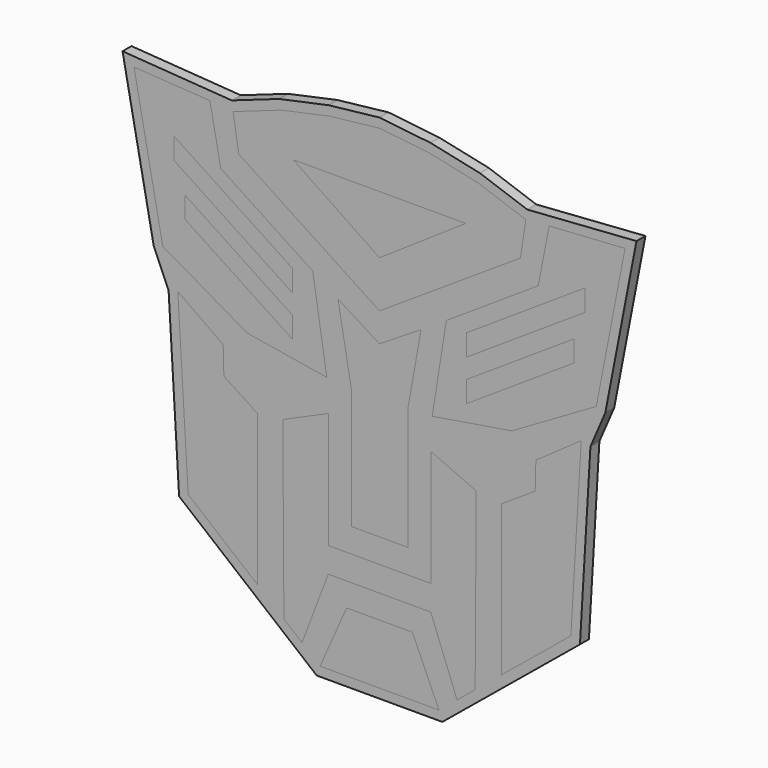
from build123d import *

# Parameters (mm, degrees)
F1_DEPTH = 3
F2_DEPTH = 3


with BuildPart() as f1:
    # F0 (on Front) → F1 (new body)
    with BuildSketch(Plane.XZ):
        Polygon((-53.7268821774, -45.1509824151), (-16.8422368791, -75.4352191945), (0, -75.4352191945), (16.8422368791, -75.4352191945), (53.7268821774, -45.1509824151), (56.539489991, 2.4758509296), (60.5167968374, 11.6959701843), (68.8824881855, 54.9527208183), (39.5995415777, 52.8759177307), (26.9121019356, 57.3433240473), (13.668756584, 60.1811832195), (0, 61.7105533974), (-13.668756584, 60.1811832195), (-26.9121019356, 57.3433240473), (-39.5995415777, 52.8759177307), (-68.8824881855, 54.9527208183), (-60.5167968374, 11.6959701843), (-56.539489991, 2.4758509296), align=None)
        Polygon((0, -72.9352191945), (-15.9474076001, -72.9352191945), (-8.8130280426, -56.8777846413), (0, -56.8777846413), (8.8130280426, -56.8777846413), (15.9474076001, -72.9352191945), align=None, mode=Mode.SUBTRACT)
        Polygon((-51.2956691779, -43.9124343824), (-54.069764731, 3.0622579127), (-41.9068980902, -5.5238401345), (-41.7224738687, -12.9008899038), (-32.7356569469, -18.7698302652), (-32.7356569469, -59.1511821184), align=None, mode=Mode.SUBTRACT)
        Polygon((-20.7786551274, -68.9685104767), (-25.6327636245, -64.9830316984), (-25.9178352004, -17.9705391344), (-13.7341774234, -12.595396716), (-13.7341774234, -43.7634282222), (0, -43.7634282222), (13.7341774234, -43.7634282222), (13.7341774234, -12.595396716), (25.9178352004, -17.9705391344), (25.6327636245, -64.9830316984), (20.7786551274, -68.9685104767), (13.7341774234, -50.5167127064), (0, -50.5167127064), (-13.7341774234, -50.5167127064), align=None, mode=Mode.SUBTRACT)
        Polygon((-11.1315774996, 15.2598236049), (0, 8.3369127888), (11.1315774996, 15.2598236049), (7.5704223445, -4.7330088536), (7.5704223445, -37.2498376782), (0, -37.2498376782), (-7.5704223445, -37.2498376782), (-7.5704223445, -4.7330088536), align=None, mode=Mode.SUBTRACT)
        Polygon((41.7224738687, -12.9008899038), (41.9068980902, -5.5238401345), (54.069764731, 3.0622579127), (51.2956691779, -43.9124343824), (32.7356569469, -59.1511821184), (32.7356569469, -18.7698302652), align=None, mode=Mode.SUBTRACT)
        Polygon((-58.1137972208, 12.4370593213), (-65.8093079622, 52.2284854321), (-45.4636682793, 50.9152881913), (-42.5526780081, 35.8633367126), (-17.9050337457, 19.645767187), (-14.1293259443, -4.1849346973), (-35.4855594774, -0.687475038), align=None, mode=Mode.SUBTRACT)
        Polygon((-13.2668552733, 57.7105511727), (0, 59.1949534067), (13.2668552733, 57.7105511727), (26.2322769099, 54.9322470708), (39.2356092694, 50.3536109741), (37.7532232006, 40.8154597581), (0, 16.0755234033), (-37.7532232006, 40.8154597581), (-39.2356092694, 50.3536109741), (-26.2322769099, 54.9322470708), align=None, mode=Mode.SUBTRACT)
        Polygon((14.1293259443, -4.1849346973), (17.9050337457, 19.645767187), (42.5526780081, 35.8633367126), (45.4636682793, 50.9152881913), (65.8093079622, 52.2284854321), (58.1137972208, 12.4370593213), (35.4855594774, -0.687475038), align=None, mode=Mode.SUBTRACT)
        Polygon((13.2668552733, 57.7105511727), (0, 59.1949534067), (-13.2668552733, 57.7105511727), (-26.2322769099, 54.9322470708), (-39.2356092694, 50.3536109741), (-37.7532232006, 40.8154597581), (0, 16.0755234033), (37.7532232006, 40.8154597581), (39.2356092694, 50.3536109741), (26.2322769099, 54.9322470708), align=None)
        Polygon((-23.1279600412, 44.2372744608), (0, 44.2372744608), (23.1279600412, 44.2372744608), (0, 28.6302770901), align=None, mode=Mode.SUBTRACT)
        Polygon((-45.4636682793, 50.9152881913), (-65.8093079622, 52.2284854321), (-58.1137972208, 12.4370593213), (-35.4855594774, -0.687475038), (-14.1293259443, -4.1849346973), (-17.9050337457, 19.645767187), (-42.5526780081, 35.8633367126), align=None)
        Polygon((-52.1286109686, 20.7382355763), (-52.1286109686, 26.4273900021), (-23.2774294992, 7.4439919785), (-23.2774294992, 1.7548375527), align=None, mode=Mode.SUBTRACT)
        Polygon((-55.0485791862, 33.6241911626), (-55.0485791862, 39.3785553987), (-23.2774294992, 18.4738870469), (-23.2774294992, 12.7195228108), align=None, mode=Mode.SUBTRACT)
        Polygon((42.5526780081, 35.8633367126), (17.9050337457, 19.645767187), (14.1293259443, -4.1849346973), (35.4855594774, -0.687475038), (58.1137972208, 12.4370593213), (65.8093079622, 52.2284854321), (45.4636682793, 50.9152881913), align=None)
        Polygon((23.2774294992, 7.4439919785), (52.1286109686, 26.4273900021), (52.1286109686, 20.7382355763), (23.2774294992, 1.7548375527), align=None, mode=Mode.SUBTRACT)
        Polygon((55.0485791862, 39.3785553987), (55.0485791862, 33.6241911626), (23.2774294992, 12.7195228108), (23.2774294992, 18.4738870469), align=None, mode=Mode.SUBTRACT)
        Polygon((-25.9178352004, -17.9705391344), (-25.6327636245, -64.9830316984), (-20.7786551274, -68.9685104767), (-13.7341774234, -50.5167127064), (0, -50.5167127064), (13.7341774234, -50.5167127064), (20.7786551274, -68.9685104767), (25.6327636245, -64.9830316984), (25.9178352004, -17.9705391344), (13.7341774234, -12.595396716), (13.7341774234, -43.7634282222), (0, -43.7634282222), (-13.7341774234, -43.7634282222), (-13.7341774234, -12.595396716), align=None)
        Polygon((-41.9068980902, -5.5238401345), (-54.069764731, 3.0622579127), (-51.2956691779, -43.9124343824), (-32.7356569469, -59.1511821184), (-32.7356569469, -18.7698302652), (-41.7224738687, -12.9008899038), align=None)
        Polygon((54.069764731, 3.0622579127), (41.9068980902, -5.5238401345), (41.7224738687, -12.9008899038), (32.7356569469, -18.7698302652), (32.7356569469, -59.1511821184), (51.2956691779, -43.9124343824), align=None)
        Polygon((11.1315774996, 15.2598236049), (0, 8.3369127888), (-11.1315774996, 15.2598236049), (-7.5704223445, -4.7330088536), (-7.5704223445, -37.2498376782), (0, -37.2498376782), (7.5704223445, -37.2498376782), (7.5704223445, -4.7330088536), align=None)
        Polygon((-8.8130280426, -56.8777846413), (-15.9474076001, -72.9352191945), (0, -72.9352191945), (15.9474076001, -72.9352191945), (8.8130280426, -56.8777846413), (0, -56.8777846413), align=None)
        Polygon((23.1279600412, 44.2372744608), (0, 44.2372744608), (-23.1279600412, 44.2372744608), (0, 28.6302770901), align=None)
        Polygon((-23.2774294992, 18.4738870469), (-55.0485791862, 39.3785553987), (-55.0485791862, 33.6241911626), (-23.2774294992, 12.7195228108), align=None)
        Polygon((23.2774294992, 12.7195228108), (55.0485791862, 33.6241911626), (55.0485791862, 39.3785553987), (23.2774294992, 18.4738870469), align=None)
        Polygon((-23.2774294992, 7.4439919785), (-52.1286109686, 26.4273900021), (-52.1286109686, 20.7382355763), (-23.2774294992, 1.7548375527), align=None)
        Polygon((52.1286109686, 20.7382355763), (52.1286109686, 26.4273900021), (23.2774294992, 7.4439919785), (23.2774294992, 1.7548375527), align=None)
    extrude(amount=F1_DEPTH)


with BuildPart() as f2:
    # F0 (on Front) → F2 (new body)
    with BuildSketch(Plane.XZ):
        Polygon((13.2668552733, 57.7105511727), (0, 59.1949534067), (-13.2668552733, 57.7105511727), (-26.2322769099, 54.9322470708), (-39.2356092694, 50.3536109741), (-37.7532232006, 40.8154597581), (0, 16.0755234033), (37.7532232006, 40.8154597581), (39.2356092694, 50.3536109741), (26.2322769099, 54.9322470708), align=None)
        Polygon((-23.1279600412, 44.2372744608), (0, 44.2372744608), (23.1279600412, 44.2372744608), (0, 28.6302770901), align=None, mode=Mode.SUBTRACT)
    extrude(amount=F2_DEPTH)


with BuildPart() as f2b:
    # F0 (on Front) → F2, piece 2 (new body)
    with BuildSketch(Plane.XZ):
        Polygon((-45.4636682793, 50.9152881913), (-65.8093079622, 52.2284854321), (-58.1137972208, 12.4370593213), (-35.4855594774, -0.687475038), (-14.1293259443, -4.1849346973), (-17.9050337457, 19.645767187), (-42.5526780081, 35.8633367126), align=None)
        Polygon((-52.1286109686, 20.7382355763), (-52.1286109686, 26.4273900021), (-23.2774294992, 7.4439919785), (-23.2774294992, 1.7548375527), align=None, mode=Mode.SUBTRACT)
        Polygon((-55.0485791862, 33.6241911626), (-55.0485791862, 39.3785553987), (-23.2774294992, 18.4738870469), (-23.2774294992, 12.7195228108), align=None, mode=Mode.SUBTRACT)
    extrude(amount=F2_DEPTH)


with BuildPart() as f2c:
    # F0 (on Front) → F2, piece 3 (new body)
    with BuildSketch(Plane.XZ):
        Polygon((42.5526780081, 35.8633367126), (17.9050337457, 19.645767187), (14.1293259443, -4.1849346973), (35.4855594774, -0.687475038), (58.1137972208, 12.4370593213), (65.8093079622, 52.2284854321), (45.4636682793, 50.9152881913), align=None)
        Polygon((23.2774294992, 7.4439919785), (52.1286109686, 26.4273900021), (52.1286109686, 20.7382355763), (23.2774294992, 1.7548375527), align=None, mode=Mode.SUBTRACT)
        Polygon((55.0485791862, 39.3785553987), (55.0485791862, 33.6241911626), (23.2774294992, 12.7195228108), (23.2774294992, 18.4738870469), align=None, mode=Mode.SUBTRACT)
    extrude(amount=F2_DEPTH)


with BuildPart() as f2d:
    # F0 (on Front) → F2, piece 4 (new body)
    with BuildSketch(Plane.XZ):
        Polygon((-41.9068980902, -5.5238401345), (-54.069764731, 3.0622579127), (-51.2956691779, -43.9124343824), (-32.7356569469, -59.1511821184), (-32.7356569469, -18.7698302652), (-41.7224738687, -12.9008899038), align=None)
    extrude(amount=F2_DEPTH)


with BuildPart() as f2e:
    # F0 (on Front) → F2, piece 5 (new body)
    with BuildSketch(Plane.XZ):
        Polygon((-25.9178352004, -17.9705391344), (-25.6327636245, -64.9830316984), (-20.7786551274, -68.9685104767), (-13.7341774234, -50.5167127064), (0, -50.5167127064), (13.7341774234, -50.5167127064), (20.7786551274, -68.9685104767), (25.6327636245, -64.9830316984), (25.9178352004, -17.9705391344), (13.7341774234, -12.595396716), (13.7341774234, -43.7634282222), (0, -43.7634282222), (-13.7341774234, -43.7634282222), (-13.7341774234, -12.595396716), align=None)
    extrude(amount=F2_DEPTH)


with BuildPart() as f2f:
    # F0 (on Front) → F2, piece 6 (new body)
    with BuildSketch(Plane.XZ):
        Polygon((11.1315774996, 15.2598236049), (0, 8.3369127888), (-11.1315774996, 15.2598236049), (-7.5704223445, -4.7330088536), (-7.5704223445, -37.2498376782), (0, -37.2498376782), (7.5704223445, -37.2498376782), (7.5704223445, -4.7330088536), align=None)
    extrude(amount=F2_DEPTH)


with BuildPart() as f2g:
    # F0 (on Front) → F2, piece 7 (new body)
    with BuildSketch(Plane.XZ):
        Polygon((-8.8130280426, -56.8777846413), (-15.9474076001, -72.9352191945), (0, -72.9352191945), (15.9474076001, -72.9352191945), (8.8130280426, -56.8777846413), (0, -56.8777846413), align=None)
    extrude(amount=F2_DEPTH)


with BuildPart() as f2h:
    # F0 (on Front) → F2, piece 8 (new body)
    with BuildSketch(Plane.XZ):
        Polygon((54.069764731, 3.0622579127), (41.9068980902, -5.5238401345), (41.7224738687, -12.9008899038), (32.7356569469, -18.7698302652), (32.7356569469, -59.1511821184), (51.2956691779, -43.9124343824), align=None)
    extrude(amount=F2_DEPTH)


with BuildPart() as f1_1:
    add(f1.part)

    # F3: cut F2b, F2, F2c, F2f, F2d, F2e, F2g, F2h
    add(f2b.part, mode=Mode.SUBTRACT)
    add(f2.part, mode=Mode.SUBTRACT)
    add(f2c.part, mode=Mode.SUBTRACT)
    add(f2f.part, mode=Mode.SUBTRACT)
    add(f2d.part, mode=Mode.SUBTRACT)
    add(f2e.part, mode=Mode.SUBTRACT)
    add(f2g.part, mode=Mode.SUBTRACT)
    add(f2h.part, mode=Mode.SUBTRACT)


solid = Compound([f2.part, f2b.part, f2c.part, f2d.part, f2e.part, f2f.part, f2g.part, f2h.part, f1_1.part])
